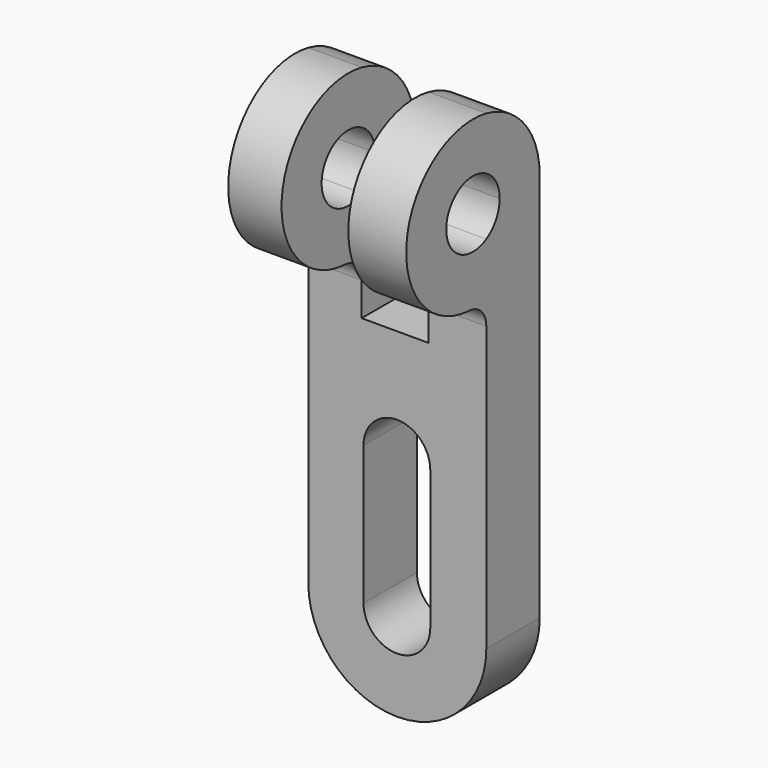
from build123d import *

# Parameters (mm, degrees)
F0_W     = 12
F0_H     = 40
F1_DEPTH = 12
F3_DEPTH = 32
F4_DEPTH = 32.001
F5_DEPTH = 32.001
F6_DEPTH = 30.001


with BuildPart() as f1:
    # F0 (on Front) → F1 (new body)
    with BuildSketch(Plane.XZ):
        with BuildLine():
            Line((0, 104.79962), (0, 19.79962))
            ThreePointArc((0, 19.79962), (16, 3.79962), (32, 19.79962))
            Line((32, 19.79962), (32, 104.79962))
            Line((32, 104.79962), (21.593631, 104.79962))
            Line((21.593631, 104.79962), (21.593631, 64.79962))
            Line((21.593631, 64.79962), (9.593631, 64.79962))
            Line((9.593631, 64.79962), (9.593631, 104.79962))
            Line((9.593631, 104.79962), (0, 104.79962))
        make_face()
        with BuildLine():
            Line((9.927311, 19.79962), (9.927311, 44.79962))
            ThreePointArc((9.927311, 44.79962), (15.927311, 50.79962), (21.927311, 44.79962))
            Line((21.927311, 44.79962), (21.927311, 19.79962))
            ThreePointArc((21.927311, 19.79962), (15.927311, 13.79962), (9.927311, 19.79962))
        make_face(mode=Mode.SUBTRACT)
        with Locations((15.593631, 84.79962)):
            Rectangle(F0_W, F0_H)
    extrude(amount=F1_DEPTH)

    # F2 (on face) → F3 (join)
    with BuildSketch(Plane.YZ.offset(32)):
        with BuildLine():
            Line((-12, 94.995772), (-12, 104.496558))
            ThreePointArc((-12, 104.496558), (-29.879182, 91.699606), (-15.789474, 74.82041))
            ThreePointArc((-15.789474, 74.82041), (-13.098095, 73.578943), (-12, 70.825954))
            Line((-12, 70.825954), (-12, 75.102681))
            Line((-12, 75.102681), (-12, 84.603468))
            ThreePointArc((-12, 84.603468), (-21, 89.79962), (-12, 94.995772))
        make_face()
    extrude(amount=-F3_DEPTH)

    # F2 (on face) → F4 (cut, through all)
    with BuildSketch(Plane.YZ.offset(32)):
        with BuildLine():
            ThreePointArc((-9, 89.79962), (-9.803848, 92.79962), (-12, 94.995772))
            Line((-12, 94.995772), (-12, 84.603468))
            ThreePointArc((-12, 84.603468), (-9.803848, 86.79962), (-9, 89.79962))
        make_face()
    extrude(amount=-F4_DEPTH, mode=Mode.SUBTRACT)

    # F2 (on face) → F5 (cut, through all)
    with BuildSketch(Plane.YZ.offset(32)):
        with BuildLine():
            ThreePointArc((-12, 104.496558), (-3.38105, 99.286453), (0, 89.79962))
            Line((0, 89.79962), (0, 104.79962))
            Line((0, 104.79962), (-12, 104.79962))
            Line((-12, 104.79962), (-12, 104.496558))
        make_face()
    extrude(amount=-F5_DEPTH, mode=Mode.SUBTRACT)

    # F0 (on Front) → F6 (cut, through all)
    with BuildSketch(Plane.XZ):
        with Locations((15.593631, 84.79962)):
            Rectangle(F0_W, F0_H)
    extrude(amount=F6_DEPTH, mode=Mode.SUBTRACT)


solid = f1.part
